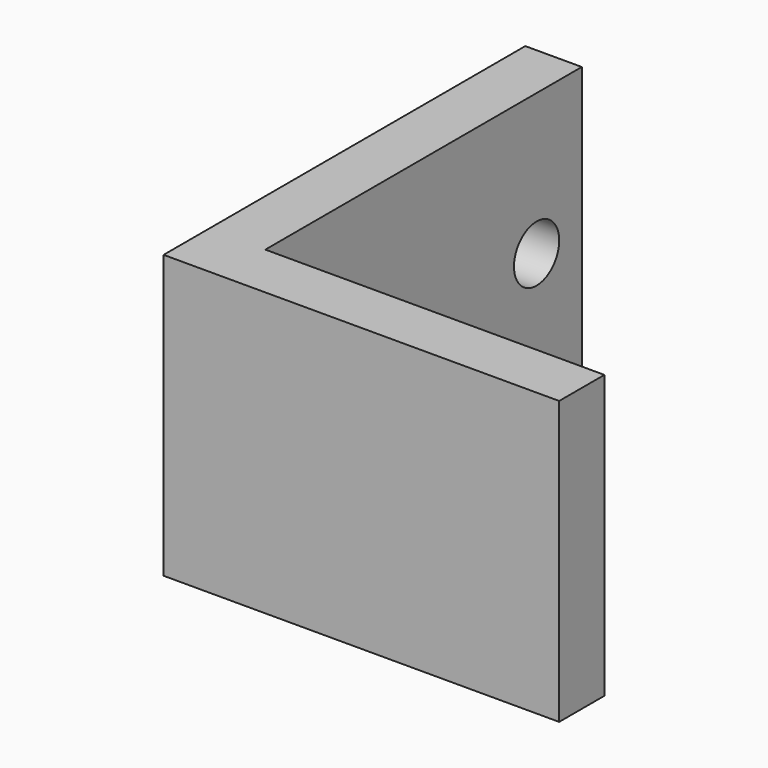
from build123d import *

# Parameters (mm, degrees)
F0_W     = 140
F0_H     = 50
F1_DEPTH = 10
F2_W     = 10
F2_H     = 50
F3_DEPTH = 70
F4_R     = 5
F5_DEPTH = 140.001
F6_W     = 140.089303
F6_H     = 159.690752
F7_DEPTH = 50.001


with BuildPart() as f1:
    # F0 (on Front) → F1 (new body)
    with BuildSketch(Plane.XZ):
        Rectangle(F0_W, F0_H)
    extrude(amount=F1_DEPTH)

    # F2 (on face) → F3 (join)
    with BuildSketch(Plane(origin=(0, 0, 0), x_dir=(-1, 0, 0), z_dir=(0, 1, 0))):
        with Locations((-65, 0)):
            Rectangle(F2_W, F2_H)
        with Locations((65, 0)):
            Rectangle(F2_W, F2_H)
    extrude(amount=F3_DEPTH)

    # F4 (on face) → F5 (cut, through all)
    with BuildSketch(Plane(origin=(-70, 0, 0), x_dir=(0, -1, 0), z_dir=(-1, 0, 0))):
        with Locations((-60, 0)):
            Circle(F4_R)
    extrude(amount=-F5_DEPTH, mode=Mode.SUBTRACT)

    # F6 (on face) → F7 (cut, through all)
    with BuildSketch(Plane(origin=(0, 0, -25), x_dir=(1, 0, 0), z_dir=(0, 0, -1))):
        with Locations((70.044652, -4.198499)):
            Rectangle(F6_W, F6_H)
    extrude(amount=-F7_DEPTH, mode=Mode.SUBTRACT)


solid = f1.part
